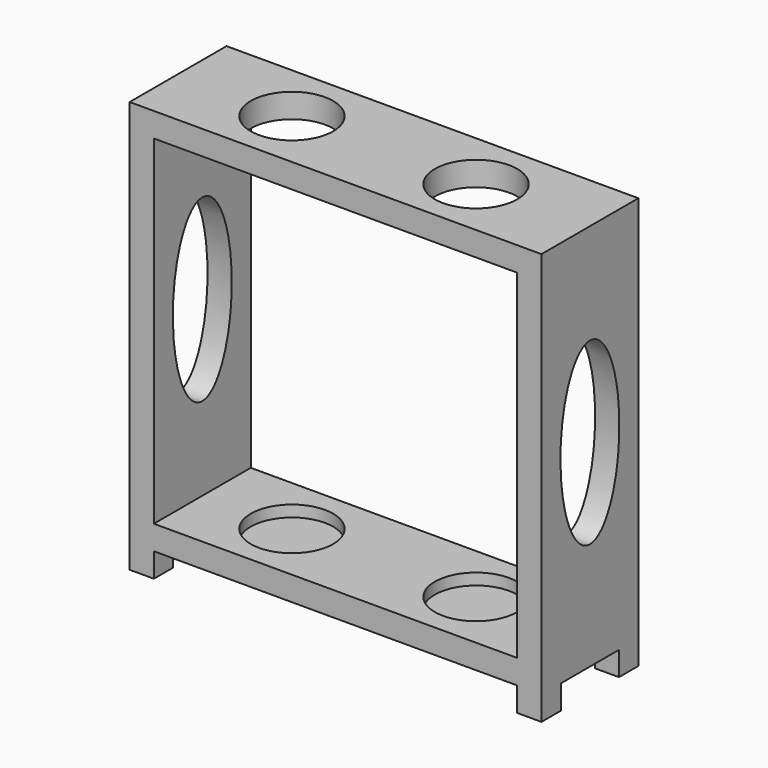
from build123d import *

# Parameters (mm, degrees)
F0_W     = 75
F0_H     = 5
F1_DEPTH = 25
F2_W     = 15
F2_H     = 5
F3_DEPTH = 100
F4_R     = 8.5
F5_DEPTH = 41


with BuildPart() as f1:
    # F0 (on Front) → F1 (new body)
    with BuildSketch(Plane.XZ):
        Polygon((-45.808392, 36.356615), (-50.808392, 36.356615), (-50.808392, -48.643385), (-45.808392, -48.643385), (-45.808392, -43.643385), (-45.808392, -38.643385), (-45.808392, 31.356615), align=None)
        with Locations((-8.308392, 33.856615)):
            Rectangle(F0_W, F0_H)
        Polygon((34.191608, 36.356615), (29.191608, 36.356615), (29.191608, 31.356615), (29.191608, -38.643385), (29.191608, -43.643385), (29.191608, -48.643385), (34.191608, -48.643385), align=None)
        with Locations((-8.308392, -41.143385)):
            Rectangle(F0_W, F0_H)
    extrude(amount=F1_DEPTH)

    # F2 (on Right) → F3 (cut, symmetric)
    with BuildSketch(Plane.YZ):
        with Locations((-12.5, -46.175022)):
            Rectangle(F2_W, F2_H)
        with BuildLine():
            add(Edge.make_bspline(
                [(-12.5, -21.439629), (0.665701, -21.439629), (-5.91715, 6.324914), (-12.5, 34.089457), (-19.08285, 6.324914), (-25.665701, -21.439629), (-12.5, -21.439629)],
                knots=[0, 0, 0, 2.094395, 2.094395, 4.18879, 4.18879, 6.283185, 6.283185, 6.283185], degree=2, weights=[1, 0.5, 1, 0.5, 1, 0.5, 1]))
        make_face()
    extrude(amount=F3_DEPTH, both=True, mode=Mode.SUBTRACT)

    # F4 (on Top) → F5 (cut, symmetric)
    with BuildSketch(Plane.XY):
        with Locations((-27.308246, -12.5)):
            Circle(F4_R)
        with Locations((10.691754, -12.5)):
            Circle(F4_R)
    extrude(amount=F5_DEPTH, both=True, mode=Mode.SUBTRACT)


solid = f1.part
